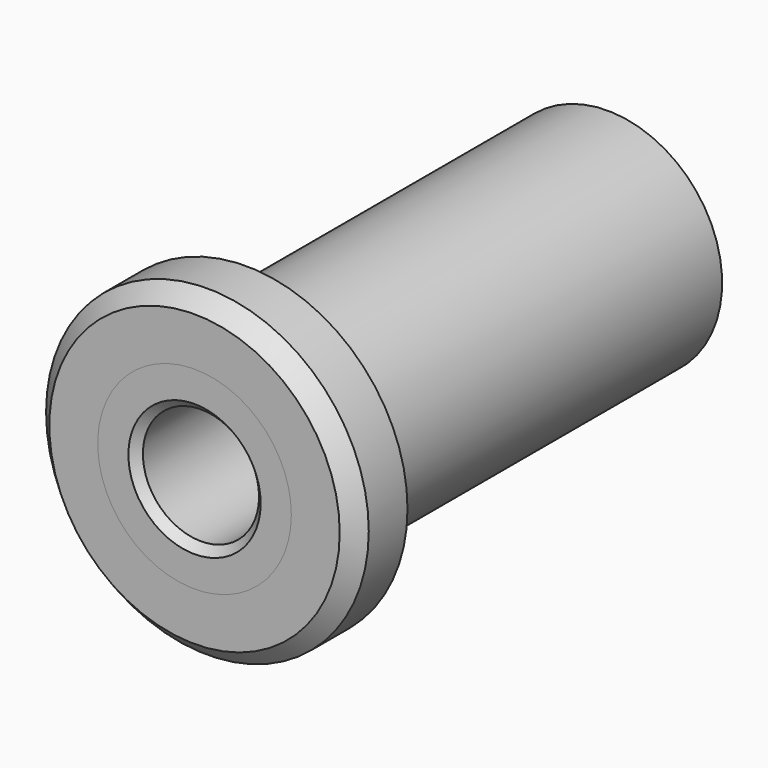
from build123d import *

# Parameters (mm, degrees)
F0_R     = 5
F1_DEPTH = 2
F2_R     = 3.55
F3_DEPTH = 14
F4_R     = 3
F5_DEPTH = 15
F6_R     = 3
F6_R_2   = 1.8
F7_DEPTH = 15
F8_SIZE  = 0.25
F9_SIZE  = 0.5


with BuildPart() as f1:
    # F0 (on Front) → F1 (new body)
    with BuildSketch(Plane.XZ):
        Circle(F0_R)
    extrude(amount=F1_DEPTH)

    # F2 (on face) → F3 (join)
    with BuildSketch(Plane(origin=(0, 0, 0), x_dir=(-1, 0, 0), z_dir=(0, 1, 0))):
        Circle(F2_R)
    extrude(amount=F3_DEPTH)

    # F4 (on face) → F5 (cut, through all)
    with BuildSketch(Plane.XZ.offset(2)):
        Circle(F4_R)
    extrude(amount=-F5_DEPTH, mode=Mode.SUBTRACT)

    # F9
    f9_edges = [f1.edges().sort_by_distance(p)[0] for p in [
        (-5, -2, 0),
    ]]
    chamfer(f9_edges, length=F9_SIZE)


with BuildPart() as f7:
    # F6 (on face) → F7 (new body, through all)
    with BuildSketch(Plane.XZ.offset(2)):
        Circle(F6_R)
        Circle(F6_R_2, mode=Mode.SUBTRACT)
    extrude(amount=-F7_DEPTH)

    # F8
    f8_edges = [f7.edges().sort_by_distance(p)[0] for p in [
        (-1.8, -2, 0),
    ]]
    chamfer(f8_edges, length=F8_SIZE)


solid = Compound([f1.part, f7.part])
